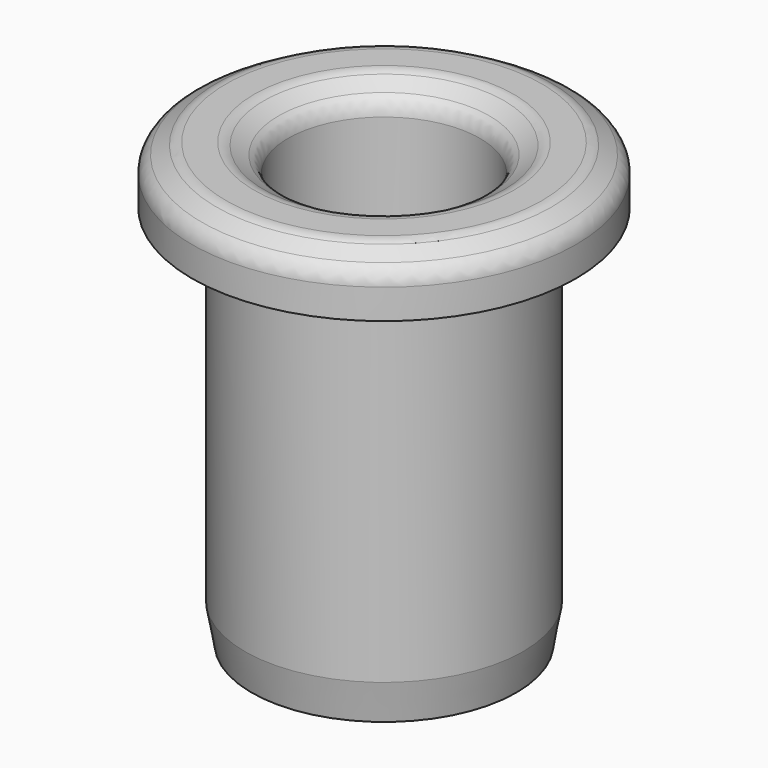
from build123d import *

# Parameters (mm, degrees)
F0_R     = 18.415
F1_DEPTH = 50.8
F2_R     = 25.4
F2_R_2   = 18.415
F3_DEPTH = 7.62
F4_R     = 12.7
F5_DEPTH = 58.421
F6_SIZE2 = 2.1997045256
F6_SIZE  = 3.81
F7_R     = 2.54
F8_R     = 2.54
F9_SIZE2 = 0.895741062
F9_SIZE  = 5.08


with BuildPart() as f1:
    # F0 (on Top) → F1 (new body)
    with BuildSketch(Plane.XY):
        Circle(F0_R)
    extrude(amount=F1_DEPTH)

    # F2 (on face) → F3 (join)
    with BuildSketch(Plane.XY.offset(50.8)):
        Circle(F2_R)
        Circle(F2_R_2, mode=Mode.SUBTRACT)
        Circle(F2_R_2)
    extrude(amount=F3_DEPTH)

    # F4 (on face) → F5 (cut, through all)
    with BuildSketch(Plane.XY.offset(58.42)):
        Circle(F4_R)
    extrude(amount=-F5_DEPTH, mode=Mode.SUBTRACT)

    # F6
    f6_edges = [f1.edges().sort_by_distance(p)[0] for p in [
        (-25.4, 0, 58.42),
        (-12.7, 0, 58.42),
    ]]
    f6_side = f1.faces().sort_by_distance((-24.68158, 0, 58.42))[0]
    chamfer(f6_edges, length=F6_SIZE, length2=F6_SIZE2, reference=f6_side)

    # F7
    f7_edges = [f1.edges().sort_by_distance(p)[0] for p in [
        (-16.51, 0, 58.42),
        (-21.59, 0, 58.42),
        (-25.4, 0, 56.220295),
        (-12.7, 0, 56.220295),
    ]]
    fillet(f7_edges, radius=F7_R)

    # F8
    f8_edges = [f1.edges().sort_by_distance(p)[0] for p in [
        (-12.7, 0, 0),
    ]]
    fillet(f8_edges, radius=F8_R)

    # F9
    f9_edges = [f1.edges().sort_by_distance(p)[0] for p in [
        (-18.415, 0, 0),
    ]]
    f9_side = f1.faces().sort_by_distance((-18.415, 0, 25.4))[0]
    chamfer(f9_edges, length=F9_SIZE, length2=F9_SIZE2, reference=f9_side)


solid = f1.part
